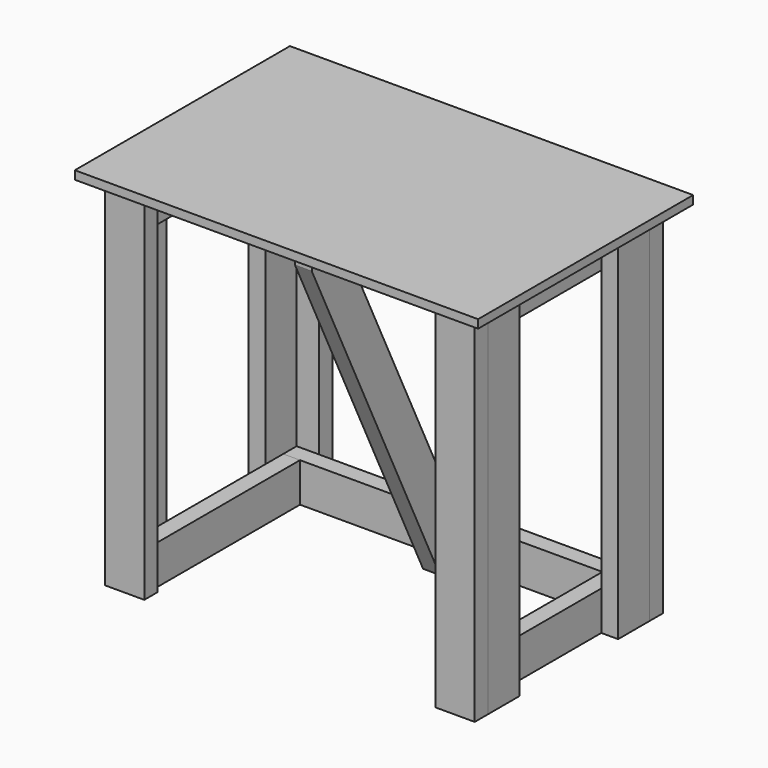
from build123d import *

# Parameters (mm, degrees)
F0_W      = 914.4
F0_H      = 609.6
F1_DEPTH  = 19.05
F2_W      = 88.9
F2_H      = 38.1
F3_DEPTH  = 812.8
F4_W      = 38.1
F4_H      = 88.9
F5_DEPTH  = 812.8
F6_W      = 762
F6_H      = 88.9
F7_DEPTH  = 38.1
F8_W      = 419.1
F8_H      = 88.9
F9_DEPTH  = 38.1
F11_W     = 685.8
F11_H     = 88.9
F12_DEPTH = 38.1
F14_DEPTH = 19.05


with BuildPart() as f1:
    # F0 (on Top) → F1 (new body)
    with BuildSketch(Plane.XY):
        Rectangle(F0_W, F0_H)
    extrude(amount=F1_DEPTH)


with BuildPart() as f3:
    # F2 (on face) → F3 (new body)
    with BuildSketch(Plane(origin=(0, 0, 0), x_dir=(1, 0, 0), z_dir=(0, 0, -1))):
        with Locations((-374.65, 247.65)):
            Rectangle(F2_W, F2_H)
        with Locations((-374.65, -247.65)):
            Rectangle(F2_W, F2_H)
        with Locations((374.65, 247.65)):
            Rectangle(F2_W, F2_H)
        with Locations((374.65, -247.65)):
            Rectangle(F2_W, F2_H)
    extrude(amount=F3_DEPTH)


with BuildPart() as f5:
    # F4 (on face) → F5 (new body, through all)
    with BuildSketch(Plane(origin=(0, 0, 0), x_dir=(1, 0, 0), z_dir=(0, 0, -1))):
        with Locations((-400.05, 184.15)):
            Rectangle(F4_W, F4_H)
        with Locations((-400.05, -184.15)):
            Rectangle(F4_W, F4_H)
        with Locations((400.05, 184.15)):
            Rectangle(F4_W, F4_H)
        with Locations((400.05, -184.15)):
            Rectangle(F4_W, F4_H)
    extrude(amount=F5_DEPTH)


with BuildPart() as f7:
    # F6 (on face) → F7 (new body)
    with BuildSketch(Plane.XZ.offset(-228.6)):
        with Locations((0, -44.45)):
            Rectangle(F6_W, F6_H)
        with Locations((0, -768.35)):
            Rectangle(F6_W, F6_H)
    extrude(amount=F7_DEPTH)


with BuildPart() as f9:
    # F8 (on face) → F9 (new body)
    with BuildSketch(Plane.YZ.offset(-381)):
        with Locations((-19.05, -44.45)):
            Rectangle(F8_W, F8_H)
        with Locations((-19.05, -768.35)):
            Rectangle(F8_W, F8_H)
    extrude(amount=F9_DEPTH)


with BuildPart() as f10_1:
    # F10: instance of F9
    add(f9.part.mirror(Plane.YZ))


with BuildPart() as f12:
    # F11 (on face) → F12 (new body)
    with BuildSketch(Plane(origin=(0, 0, 0), x_dir=(1, 0, 0), z_dir=(0, 0, -1))):
        with Locations((0, 184.15)):
            Rectangle(F11_W, F11_H)
    extrude(amount=F12_DEPTH)


with BuildPart() as f14:
    # F13 (on Right) → F14 (new body, symmetric)
    with BuildSketch(Plane.YZ):
        Polygon((-228.6, -38.1), (-228.6, -58.387309), (134.63574, -812.8), (190.5, -812.8), (190.5, -723.9), (-139.7, -38.1), align=None)
    extrude(amount=F14_DEPTH, both=True)


solid = Compound([f1.part, f3.part, f5.part, f7.part, f9.part, f10_1.part, f12.part, f14.part])
